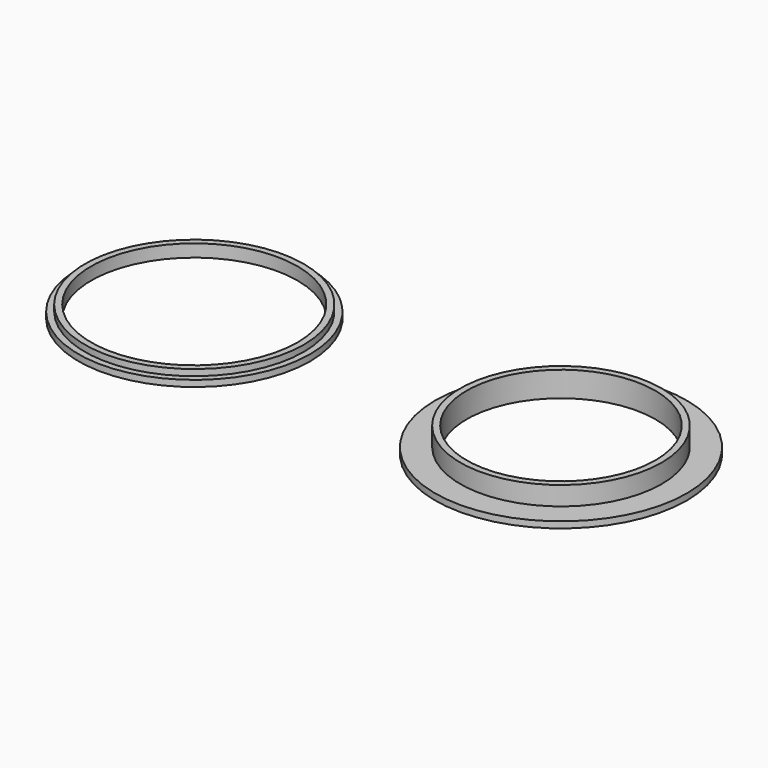
from build123d import *

# Parameters (mm, degrees)
F0_R     = 31.75
F0_R_2   = 25.4
F1_DEPTH = 1.5875
F0_R_3   = 23.8125
F2_DEPTH = 6.35
F3_R     = 27.6225
F3_R_2   = 26.035
F4_DEPTH = 3.175
F3_R_3   = 29.21
F5_DEPTH = 1.5875


with BuildPart() as f1:
    # F0 (on Top) → F1 (new body)
    with BuildSketch(Plane.XY):
        Circle(F0_R)
        Circle(F0_R_2, mode=Mode.SUBTRACT)
    extrude(amount=F1_DEPTH)

    # F0 (on Top) → F2 (join)
    with BuildSketch(Plane.XY):
        Circle(F0_R_2)
        Circle(F0_R_3, mode=Mode.SUBTRACT)
    extrude(amount=F2_DEPTH)


with BuildPart() as f4:
    # F3 (on Top) → F4 (new body)
    with BuildSketch(Plane.XY):
        with Locations((-92.535257, 0)):
            Circle(F3_R)
        with Locations((-92.535257, 0)):
            Circle(F3_R_2, mode=Mode.SUBTRACT)
    extrude(amount=F4_DEPTH)

    # F3 (on Top) → F5 (join)
    with BuildSketch(Plane.XY):
        with Locations((-92.535257, 0)):
            Circle(F3_R_3)
        with Locations((-92.535257, 0)):
            Circle(F3_R, mode=Mode.SUBTRACT)
    extrude(amount=F5_DEPTH)


solid = Compound([f1.part, f4.part])
